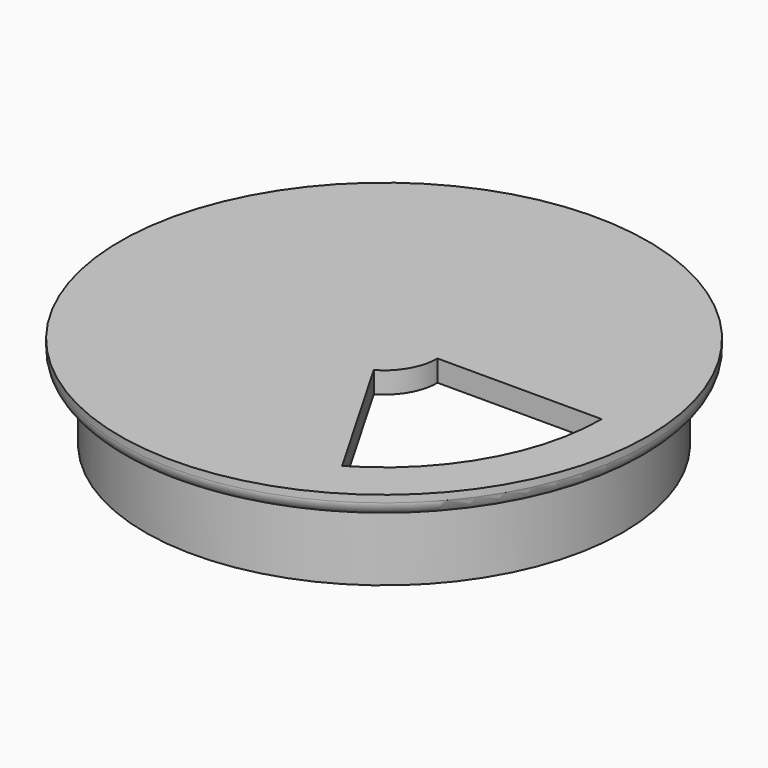
from build123d import *

# Parameters (mm, degrees)
F0_R     = 37
F1_DEPTH = 3
F2_R     = 2
F3_R     = 33.5
F4_DEPTH = 10


with BuildPart() as f1:
    # F0 (on Top) → F1 (new body)
    with BuildSketch(Plane.XY):
        Circle(F0_R)
        with BuildLine():
            ThreePointArc((16.75, -29.0118510268), (-29.0118510268, 16.75), (33.5, 0))
            ThreePointArc((33.5, 0), (29.0118510268, -16.75), (16.75, -29.0118510268))
        make_face(mode=Mode.SUBTRACT)
        with BuildLine():
            Line((7.5, 0), (30.5, 0))
            ThreePointArc((30.5, 0), (-26.4137748154, 15.25), (15.25, -26.4137748154))
            Line((15.25, -26.4137748154), (3.75, -6.4951905284))
            ThreePointArc((3.75, -6.4951905284), (-6.4951905284, 3.75), (7.5, 0))
        make_face()
        with BuildLine():
            Line((30.5, 0), (33.5, 0))
            ThreePointArc((33.5, 0), (-29.0118510268, 16.75), (16.75, -29.0118510268))
            Line((16.75, -29.0118510268), (15.25, -26.4137748154))
            ThreePointArc((15.25, -26.4137748154), (-26.4137748154, 15.25), (30.5, 0))
        make_face()
        with BuildLine():
            ThreePointArc((3.75, -6.4951905284), (6.4951905284, -3.75), (7.5, 0))
            ThreePointArc((7.5, 0), (-6.4951905284, 3.75), (3.75, -6.4951905284))
        make_face()
        with BuildLine():
            ThreePointArc((16.75, -29.0118510268), (29.0118510268, -16.75), (33.5, 0))
            Line((33.5, 0), (30.5, 0))
            ThreePointArc((30.5, 0), (26.4137748154, -15.25), (15.25, -26.4137748154))
            Line((15.25, -26.4137748154), (16.75, -29.0118510268))
        make_face()
    extrude(amount=-F1_DEPTH)

    # F2
    f2_edges = [f1.edges().sort_by_distance(p)[0] for p in [
        (-37, 0, -3),
    ]]
    fillet(f2_edges, radius=F2_R)

    # F3 (on face) → F4 (join)
    with BuildSketch(Plane(origin=(0, 0, -3), x_dir=(1, 0, 0), z_dir=(0, 0, -1))):
        Circle(F3_R)
        with BuildLine():
            ThreePointArc((15.25, 26.4137748154), (26.4137748154, 15.25), (30.5, 0))
            ThreePointArc((30.5, 0), (-26.4137748154, -15.25), (15.25, 26.4137748154))
        make_face(mode=Mode.SUBTRACT)
    extrude(amount=F4_DEPTH)


solid = f1.part
